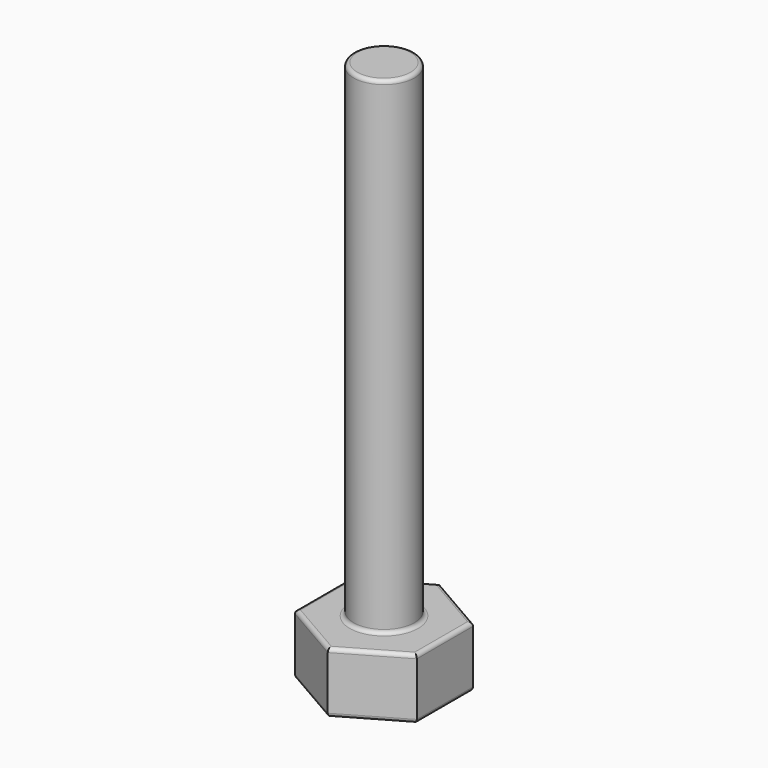
from build123d import *

# Parameters (mm, degrees)
F0_R     = 3.175
F1_DEPTH = 57.15
F2_DEPTH = 6.35
F3_R     = 0.396875


with BuildPart() as f1:
    # F0 (on Top) → F1 (new body)
    with BuildSketch(Plane.XY):
        Circle(F0_R)
    extrude(amount=F1_DEPTH)

    # F0 (on Top) → F2 (join)
    with BuildSketch(Plane.XY):
        Polygon((6.35, -3.6661742094), (6.35, 3.6661742094), (0, 7.3323484187), (-6.35, 3.6661742094), (-6.35, -3.6661742094), (0, -7.3323484187), align=None)
        Circle(F0_R, mode=Mode.SUBTRACT)
    extrude(amount=F2_DEPTH)

    # F3
    f3_edges = [f1.edges().sort_by_distance(p)[0] for p in [
        (6.35, 0, 6.35),
        (3.175, 5.499261, 6.35),
        (-3.175, 5.499261, 6.35),
        (-6.35, 0, 6.35),
        (-3.175, -5.499261, 6.35),
        (3.175, -5.499261, 6.35),
        (-3.175, 0, 6.35),
        (6.35, 0, 0),
        (3.175, 5.499261, 0),
        (-3.175, 5.499261, 0),
        (-6.35, 0, 0),
        (-3.175, -5.499261, 0),
        (3.175, -5.499261, 0),
        (-3.175, 0, 57.15),
    ]]
    fillet(f3_edges, radius=F3_R)


solid = f1.part
